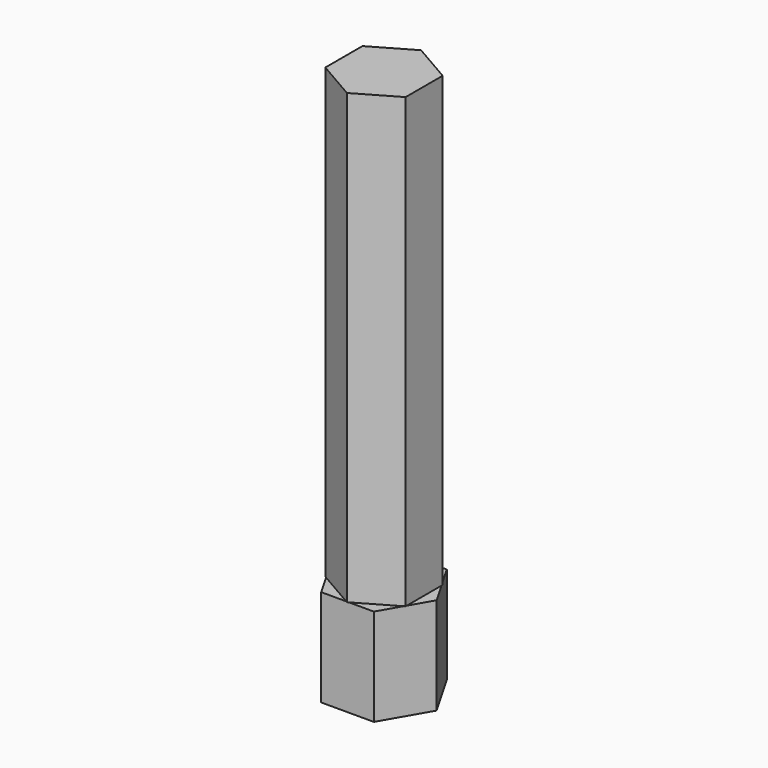
from build123d import *

# Parameters (mm, degrees)
F1_DEPTH = 6.5
F3_DEPTH = 30
F4_R     = 1.625
F5_DEPTH = 35


with BuildPart() as f1:
    # F0 (on Top) → F1 (new body)
    with BuildSketch(Plane.XY):
        Polygon((-3.521837, 0), (-1.760918, -3.05), (1.760918, -3.05), (3.521837, 0), (1.760918, 3.05), (-1.760918, 3.05), align=None)
    extrude(amount=F1_DEPTH)

    # F2 (on face) → F3 (join)
    with BuildSketch(Plane.XY.offset(6.5)):
        Polygon((2.684679, 1.55), (0, 3.1), (-2.684679, 1.55), (-2.684679, -1.55), (0, -3.1), (2.684679, -1.55), align=None)
    extrude(amount=F3_DEPTH)

    # F4 (on face) → F5 (cut)
    with BuildSketch(Plane(origin=(0, 0, 0), x_dir=(1, 0, 0), z_dir=(0, 0, -1))):
        Circle(F4_R)
    extrude(amount=-F5_DEPTH, mode=Mode.SUBTRACT)


solid = f1.part
